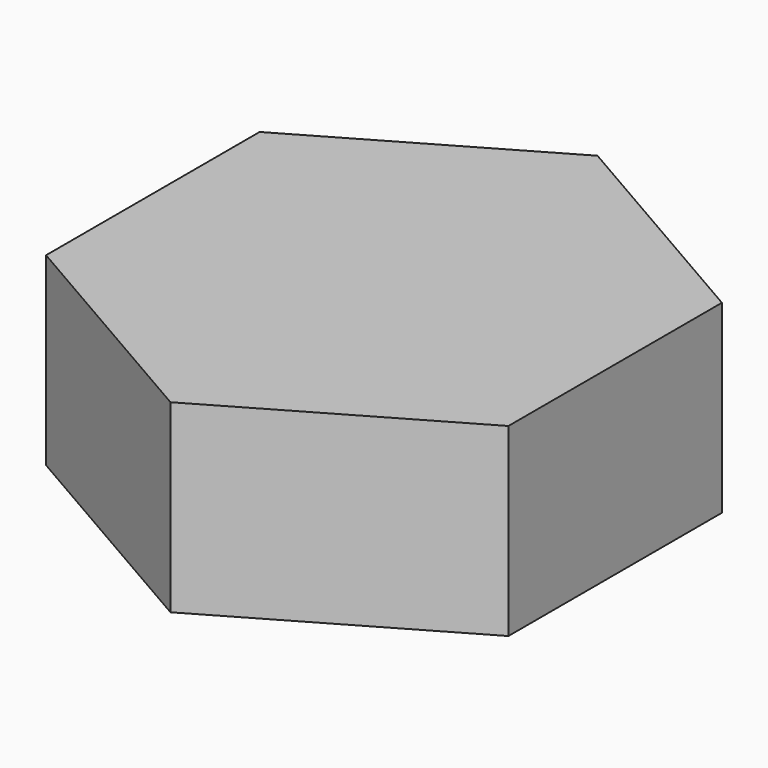
from build123d import *

# Parameters (mm, degrees)
F1_DEPTH = 27.94
F2_T     = -6.477
F3_R     = 9.525
F4_DEPTH = 5.334


with BuildPart() as f1:
    # F0 (on Top) → F1 (new body)
    with BuildSketch(Plane.XY):
        Polygon((34.925, 20.163958), (0, 40.327916), (-34.925, 20.163958), (-34.925, -20.163958), (0, -40.327916), (34.925, -20.163958), align=None)
    extrude(amount=F1_DEPTH)

    # F2
    f2_openings = [f1.faces().sort_by_distance(p)[0] for p in [
        (0, 0, 0),
    ]]
    offset(amount=F2_T, openings=f2_openings)

    # F3 (on face) → F4 (cut)
    with BuildSketch(Plane(origin=(28.448, 0, 0), x_dir=(0, -1, 0), z_dir=(-1, 0, 0))):
        with Locations((0, 10.7315)):
            Circle(F3_R)
    extrude(amount=-F4_DEPTH, mode=Mode.SUBTRACT)


solid = f1.part
